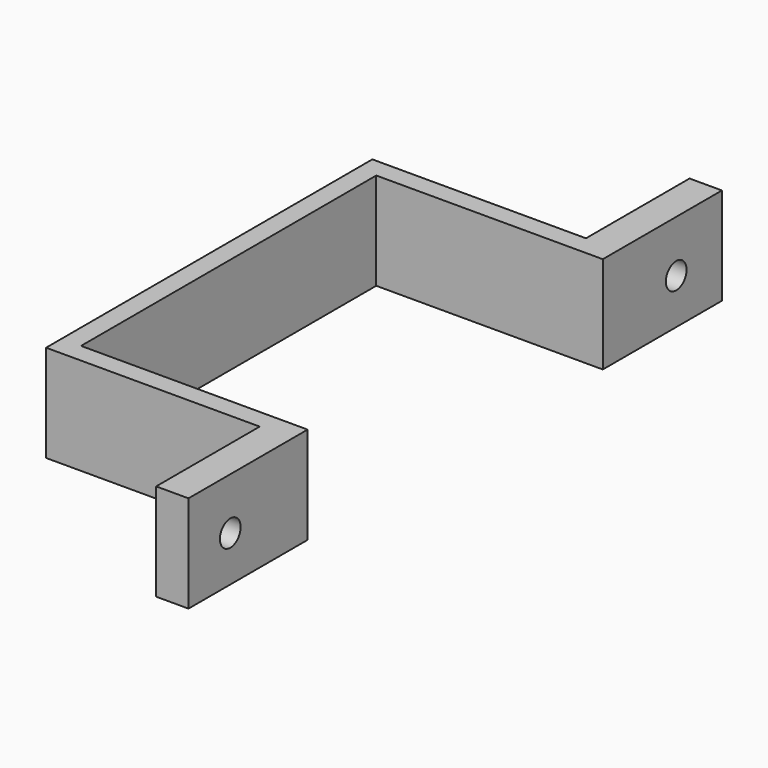
from build123d import *

# Parameters (mm, degrees)
PAD_DEPTH   = 15
SKETCH001_R = 2
HOLE_DEPTH  = 25


with BuildPart() as part:
    # Sketch → Pad (new body)
    with BuildSketch(Plane.XY):
        Polygon((-4.425698, 71.54545), (-4.425698, 51.54545), (-37.425698, 51.54545), (-37.425698, -11.45455), (-4.425698, -11.45455), (-4.425698, -31.45455), (0.574302, -31.45455), (0.574302, -8.45455), (-34.425698, -8.45455), (-34.425698, 48.54545), (0.574302, 48.54545), (0.574302, 71.54545), align=None)
    extrude(amount=PAD_DEPTH)

    # Sketch001 (on Face5 of Pad) → Hole (cut)
    with BuildSketch(Plane(origin=(-4.425698, 0, 0), x_dir=(0, -1, 0), z_dir=(-1, 0, 0))):
        with Locations((-62.718771, 7)):
            Circle(SKETCH001_R)
        with Locations((23.384939, 7)):
            Circle(SKETCH001_R)
    extrude(amount=-HOLE_DEPTH, mode=Mode.SUBTRACT)


solid = part.part
